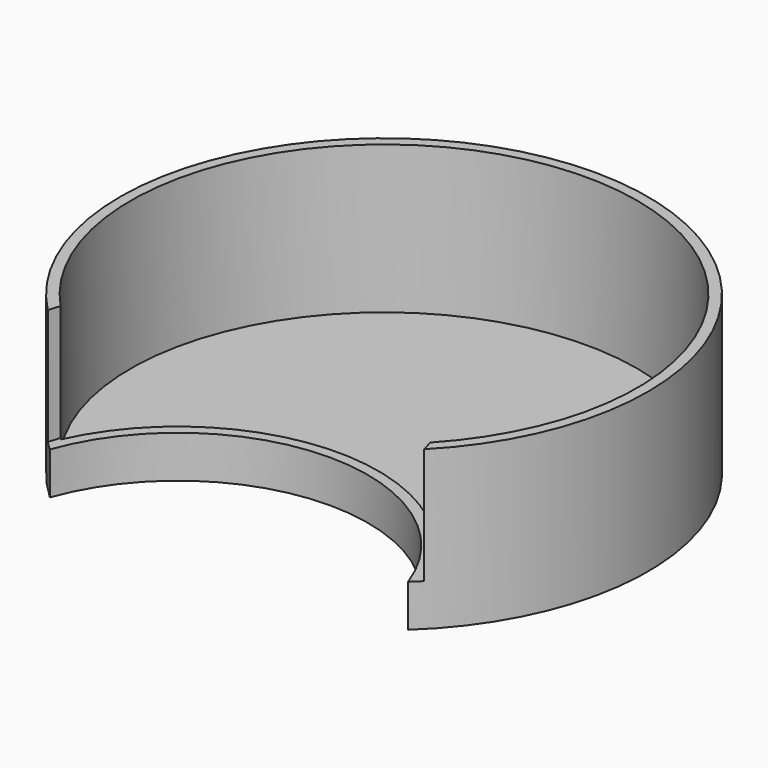
from build123d import *

# Parameters (mm, degrees)
F0_R     = 63.5
F1_DEPTH = 2.54
F2_R     = 45.7677355117
F3_DEPTH = 25.4
F4_DEPTH = 12.7
F5_DEPTH = 25.4
F6_T     = -2.54
F8_R     = 46.8709431216
F9_DEPTH = 177.8


with BuildPart() as f1:
    # F0 (on Top) → F1 (new body)
    with BuildSketch(Plane.XY):
        Circle(F0_R)
    extrude(amount=F1_DEPTH)

    # F2 (on Top) → F3 (cut)
    with BuildSketch(Plane.XY):
        with Locations((0, -62.0349124074)):
            Circle(F2_R)
    extrude(amount=F3_DEPTH, mode=Mode.SUBTRACT)

    # F1_face (on face) → F4 (join)
    with BuildSketch(Plane(origin=(0, 12.1231613089, 2.54), x_dir=(1, 0, 0), z_dir=(0, 0, 1))):
        with BuildLine():
            ThreePointArc((-43.0987599006, -58.7573429253), (0, -28.3903382046), (43.0987599006, -58.7573429253))
            ThreePointArc((43.0987599006, -58.7573429253), (0, 51.3768386911), (-43.0987599006, -58.7573429253))
        make_face()
    extrude(amount=-F4_DEPTH)

    # F1_face (on face) → F5 (join)
    with BuildSketch(Plane(origin=(0, 12.1231613089, 2.54), x_dir=(1, 0, 0), z_dir=(0, 0, 1))):
        with BuildLine():
            ThreePointArc((-43.0987599006, -58.7573429253), (0, -28.3903382046), (43.0987599006, -58.7573429253))
            ThreePointArc((43.0987599006, -58.7573429253), (0, 51.3768386911), (-43.0987599006, -58.7573429253))
        make_face()
    extrude(amount=F5_DEPTH)

    # F6
    f6_openings = [f1.faces().sort_by_distance(p)[0] for p in [
        (0, 12.123161, 27.94),
    ]]
    offset(amount=F6_T, openings=f6_openings)

    # F8 (on face) → F9 (cut)
    with BuildSketch(Plane.XY):
        with Locations((0, -56.5915703773)):
            Circle(F8_R)
    extrude(amount=F9_DEPTH, mode=Mode.SUBTRACT)


solid = f1.part
